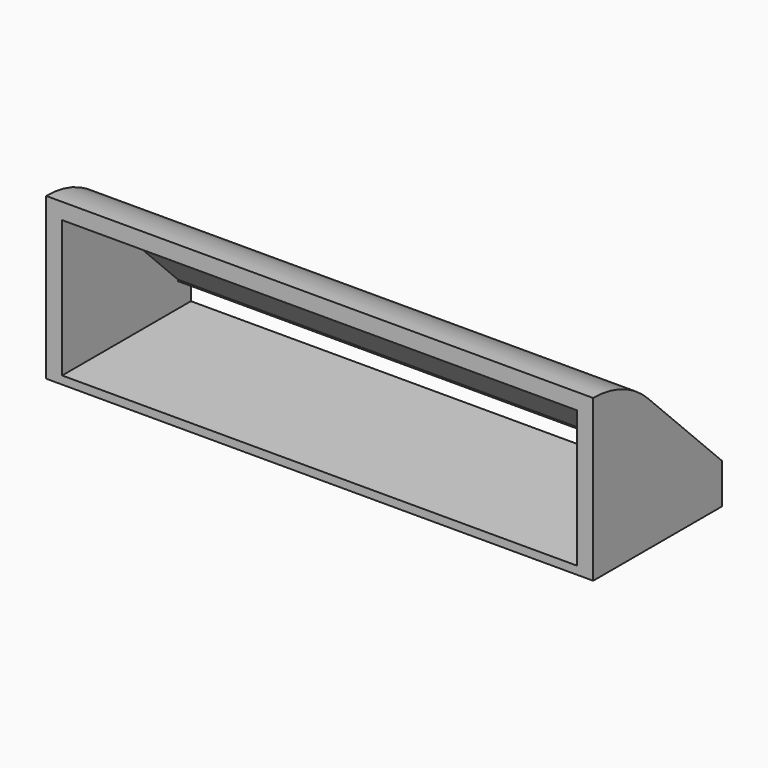
from build123d import *

# Parameters (mm, degrees)
F0_W       = 86.36
F0_H       = 6.35
F1_DEPTH   = 19.05
F2_W       = 86.36
F2_H       = 19.05
F2_H_2     = 6.35
F3_DEPTH   = 6.35
F1_FACE1_W = 86.36
F1_FACE1_H = 19.05
F3_FACE_W  = 86.36
F3_FACE_H  = 6.35
F5_R       = 15.24
F6_T       = -2.54
F7_W       = 81.28
F7_H       = 3.81
F8_DEPTH   = 25.4010001


with BuildPart() as f1:
    # F0 (on Front) → F1 (new body)
    with BuildSketch(Plane.XZ):
        Rectangle(F0_W, F0_H)
    extrude(amount=F1_DEPTH)

    # F2 (on face) → F3 (join)
    with BuildSketch(Plane.XZ.offset(19.05)):
        with Locations((0, 12.7)):
            Rectangle(F2_W, F2_H)
        Rectangle(F2_W, F2_H_2)
    extrude(amount=F3_DEPTH)

    # F1_face1 (on face) → F4 section 0
    with BuildSketch(Plane(origin=(0, -9.525, 3.175), x_dir=(1, 0, 0), z_dir=(0, 0, 1))):
        Rectangle(F1_FACE1_W, F1_FACE1_H)
    # F3_face (on face) → F4 section 1
    with BuildSketch(Plane(origin=(0, -22.225, 22.225), x_dir=(1, 0, 0), z_dir=(0, 0, 1))):
        Rectangle(F3_FACE_W, F3_FACE_H)
    loft()

    # F5
    f5_edges = [f1.edges().sort_by_distance(p)[0] for p in [
        (0, -19.05, 22.225),
    ]]
    fillet(f5_edges, radius=F5_R)

    # F6
    f6_openings = [f1.faces().sort_by_distance(p)[0] for p in [
        (0, -25.4, 9.525),
    ]]
    offset(amount=F6_T, openings=f6_openings)

    # F7 (on face) → F8 (cut, through all)
    with BuildSketch(Plane(origin=(0, 0, 0), x_dir=(-1, 0, 0), z_dir=(0, 1, 0))):
        Rectangle(F7_W, F7_H)
    extrude(amount=-F8_DEPTH, mode=Mode.SUBTRACT)


solid = f1.part
